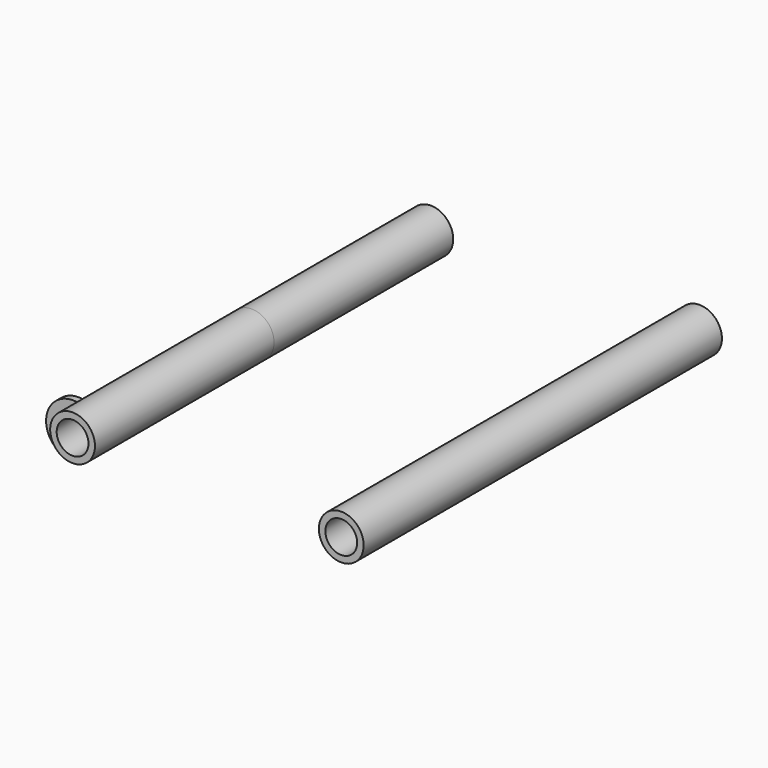
from build123d import *

# Parameters (mm, degrees)
F0_R     = 5
F0_R_2   = 3.55
F1_DEPTH = 50


with BuildPart() as f1:
    # F0 (on Front) → F1 (new body, symmetric)
    with BuildSketch(Plane.XZ):
        with Locations((-26.906252, 15.115591)):
            Circle(F0_R)
        with Locations((-26.906252, 15.115591)):
            Circle(F0_R_2, mode=Mode.SUBTRACT)
        with Locations((33.093748, 15.115591)):
            Circle(F0_R)
        with Locations((33.093748, 15.115591)):
            Circle(F0_R_2, mode=Mode.SUBTRACT)
    extrude(amount=F1_DEPTH, both=True)


with BuildPart() as f3:
    # F2 (on Top) → F3 (revolve)
    with BuildSketch(Plane.XY):
        Polygon((-50.148239, -23.716735), (-52.648239, -23.716735), (-52.648239, -25.216735), (-46.648239, -25.216735), (-46.648239, -23.716735), (-49.148239, -23.716735), align=None)
        Polygon((-50.148239, -23.267953), (-50.148239, -23.716735), (-49.148239, -23.716735), (-49.148239, -17.216735), (-50.148239, -17.216735), (-50.148239, -17.665516), (-50.448239, -18.636575), (-50.148239, -19.233808), (-50.148239, -19.682589), (-50.448239, -20.653647), (-50.148239, -21.25088), (-50.148239, -21.699662), (-50.448239, -22.67072), align=None)
    revolve(axis=Axis((-46.648239, -24.466735, 0), (0, -1, 0)))


solid = Compound([f1.part, f3.part])
